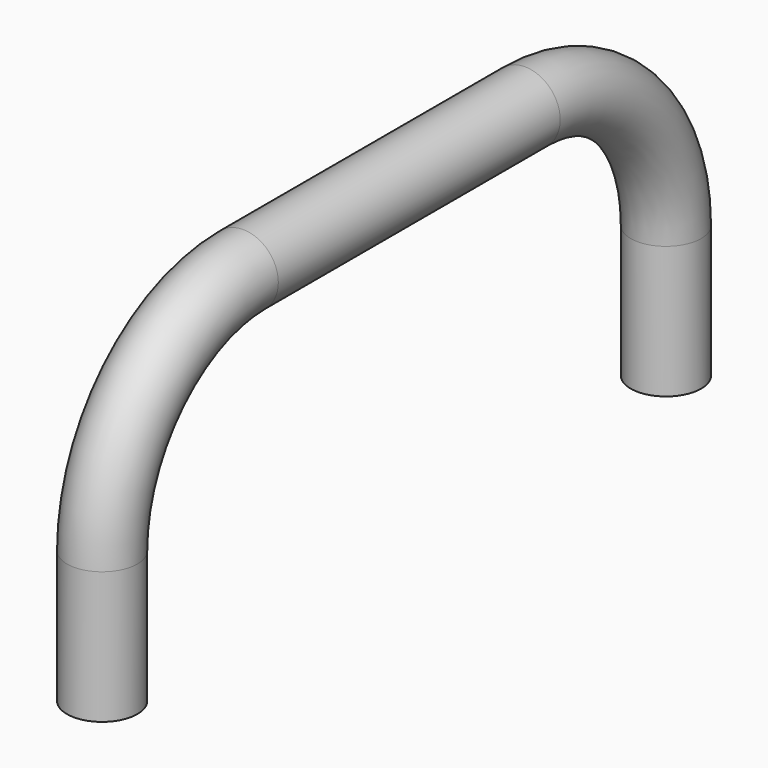
from build123d import *

# Parameters (mm, degrees)
F1_R     = 4
F3_R     = 2
F4_DEPTH = 10


with BuildPart() as f2:
    # F2: sweep along a path in F0
    with BuildLine(Plane.YZ) as f2_path:
        Line((0, 0), (0, 15))
        ThreePointArc((0, 15), (5.857864, 29.142136), (20, 35))
        Line((20, 35), (60, 35))
        ThreePointArc((60, 35), (74.142136, 29.142136), (80, 15))
        Line((80, 15), (80, 0))
    # F1 (on Top) → F2 (sweep)
    with BuildSketch(Plane.XY):
        Circle(F1_R)
    sweep(path=f2_path.line)

    # F3 (on face) → F4 (cut)
    with BuildSketch(Plane(origin=(0, 0, 0), x_dir=(1, 0, 0), z_dir=(0, 0, -1))):
        Circle(F3_R)
        with Locations((0, -100)):
            Circle(F3_R)
    extrude(amount=-F4_DEPTH, mode=Mode.SUBTRACT)


solid = f2.part
